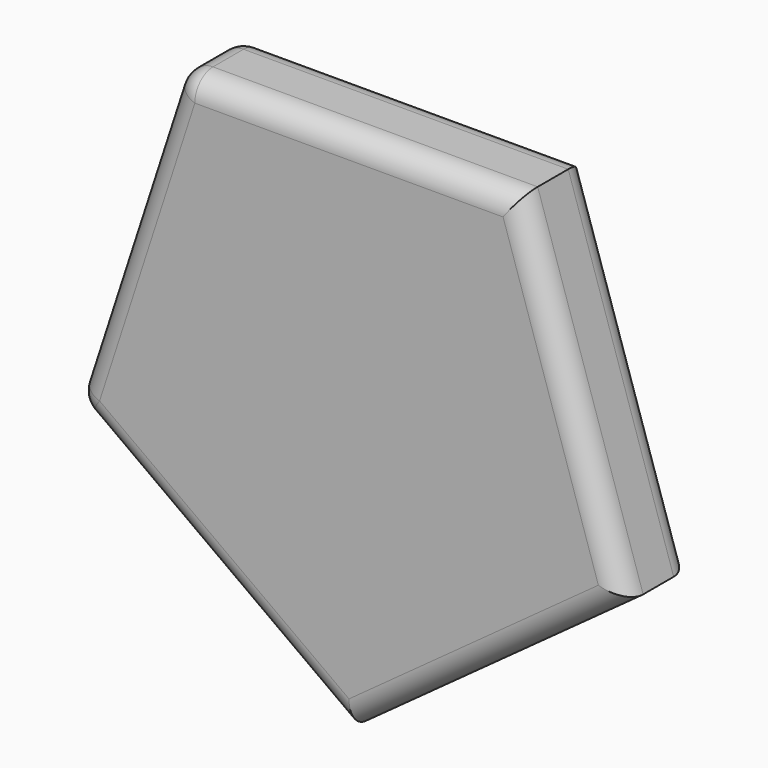
from build123d import *

# Parameters (mm, degrees)
F1_DEPTH = 18.708162
F2_R     = 5.08


with BuildPart() as f1:
    # F0 (on Front) → F1 (new body)
    with BuildSketch(Plane.XZ):
        Polygon((38.234155, 52.624799), (-38.234155, 52.624799), (-61.864162, -20.100885), (0, -65.047829), (61.864162, -20.100885), align=None)
    extrude(amount=F1_DEPTH)

    # F2
    f2_edges = [f1.edges().sort_by_distance(p)[0] for p in [
        (50.049158, -18.708162, 16.261957),
        (50.049158, 0, 16.261957),
        (30.932081, -18.708162, -42.574357),
        (30.932081, 0, -42.574357),
        (-30.932081, 0, -42.574357),
        (-30.932081, -18.708162, -42.574357),
        (0, 0, 52.624799),
        (-50.049158, 0, 16.261957),
        (0, -18.708162, 52.624799),
        (-50.049158, -18.708162, 16.261957),
        (-38.234155, -9.354081, 52.624799),
        (-61.864162, -9.354081, -20.100885),
    ]]
    fillet(f2_edges, radius=F2_R)


solid = f1.part
